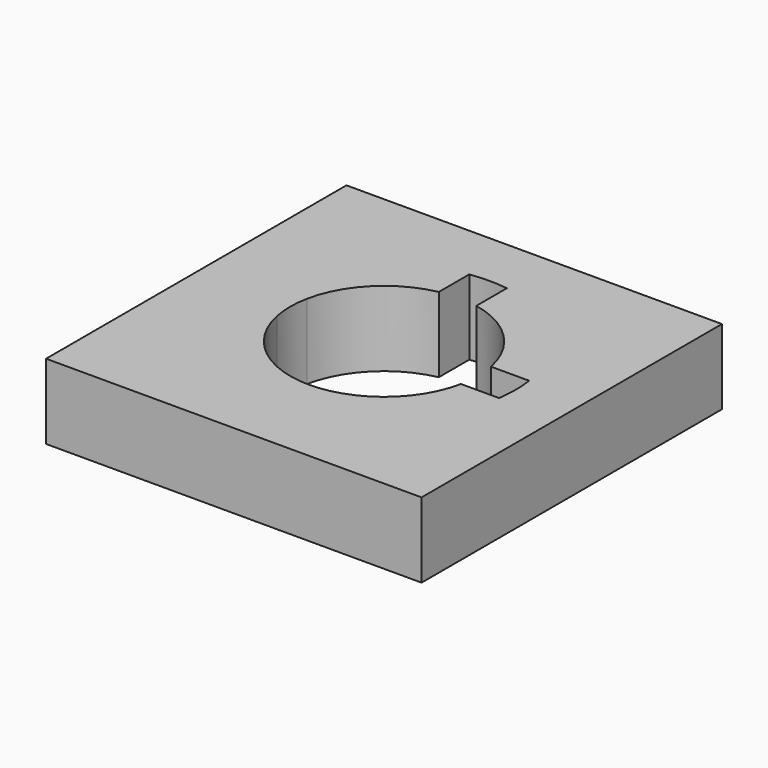
from build123d import *

# Parameters (mm, degrees)
F0_W     = 50
F0_H     = 50
F1_DEPTH = 10


with BuildPart() as f1:
    # F0 (on Top) → F1 (new body)
    with BuildSketch(Plane.XY):
        Rectangle(F0_W, F0_H)
        with BuildLine():
            ThreePointArc((2.5, 17.3205080757), (12.3743686708, 12.3743686708), (17.3205080757, 2.5))
            Line((17.3205080757, 2.5), (21.1176965386, 2.5))
            Line((21.1176965386, 2.5), (21.1176965386, -2.5))
            Line((21.1176965386, -2.5), (17.3205080757, -2.5))
            ThreePointArc((17.3205080757, -2.5), (12.3743686708, -12.3743686708), (2.5, -17.3205080757))
            Line((2.5, -17.3205080757), (2.5, -18.6099875718))
            Line((2.5, -18.6099875718), (-2.5, -18.6099875718))
            Line((-2.5, -18.6099875718), (-2.5, -17.3205080757))
            ThreePointArc((-2.5, -17.3205080757), (-12.3743686708, -12.3743686708), (-17.3205080757, -2.5))
            Line((-17.3205080757, -2.5), (-21.1176965386, -2.5))
            Line((-21.1176965386, -2.5), (-21.1176965386, 2.5))
            Line((-21.1176965386, 2.5), (-17.3205080757, 2.5))
            ThreePointArc((-17.3205080757, 2.5), (-12.3743686708, 12.3743686708), (-2.5, 17.3205080757))
            Line((-2.5, 17.3205080757), (-2.5, 18.6099875718))
            Line((-2.5, 18.6099875718), (2.5, 18.6099875718))
            Line((2.5, 18.6099875718), (2.5, 17.3205080757))
        make_face(mode=Mode.SUBTRACT)
        with BuildLine():
            ThreePointArc((-2.5, 17.3205080757), (0, 17.5), (2.5, 17.3205080757))
            Line((2.5, 17.3205080757), (2.5, 18.6099875718))
            Line((2.5, 18.6099875718), (-2.5, 18.6099875718))
            Line((-2.5, 18.6099875718), (-2.5, 17.3205080757))
        make_face()
        with BuildLine():
            ThreePointArc((-17.3205080757, -2.5), (-17.5, 0), (-17.3205080757, 2.5))
            Line((-17.3205080757, 2.5), (-21.1176965386, 2.5))
            Line((-21.1176965386, 2.5), (-21.1176965386, -2.5))
            Line((-21.1176965386, -2.5), (-17.3205080757, -2.5))
        make_face()
        with BuildLine():
            Line((2.5, -18.6099875718), (2.5, -17.3205080757))
            ThreePointArc((2.5, -17.3205080757), (0, -17.5), (-2.5, -17.3205080757))
            Line((-2.5, -17.3205080757), (-2.5, -18.6099875718))
            Line((-2.5, -18.6099875718), (2.5, -18.6099875718))
        make_face()
        with BuildLine():
            Line((21.1176965386, 2.5), (17.3205080757, 2.5))
            ThreePointArc((17.3205080757, 2.5), (17.4550693399, 1.2532175939), (17.5, 0))
            ThreePointArc((17.5, 0), (17.4550693399, -1.2532175939), (17.3205080757, -2.5))
            Line((17.3205080757, -2.5), (21.1176965386, -2.5))
            Line((21.1176965386, -2.5), (21.1176965386, 2.5))
        make_face()
        with BuildLine():
            ThreePointArc((2.5, 12.2474487139), (8.8388347648, 8.8388347648), (12.2474487139, 2.5))
            Line((12.2474487139, 2.5), (17.3205080757, 2.5))
            ThreePointArc((17.3205080757, 2.5), (12.3743686708, 12.3743686708), (2.5, 17.3205080757))
            Line((2.5, 17.3205080757), (2.5, 12.2474487139))
        make_face()
        with BuildLine():
            Line((17.3205080757, -2.5), (12.2474487139, -2.5))
            ThreePointArc((12.2474487139, -2.5), (8.8388347648, -8.8388347648), (2.5, -12.2474487139))
            Line((2.5, -12.2474487139), (2.5, -17.3205080757))
            ThreePointArc((2.5, -17.3205080757), (12.3743686708, -12.3743686708), (17.3205080757, -2.5))
        make_face()
        with BuildLine():
            Line((2.5, -17.3205080757), (2.5, -12.2474487139))
            ThreePointArc((2.5, -12.2474487139), (0, -12.5), (-2.5, -12.2474487139))
            Line((-2.5, -12.2474487139), (-2.5, -17.3205080757))
            ThreePointArc((-2.5, -17.3205080757), (0, -17.5), (2.5, -17.3205080757))
        make_face()
        with BuildLine():
            Line((-2.5, -17.3205080757), (-2.5, -12.2474487139))
            ThreePointArc((-2.5, -12.2474487139), (-8.8388347648, -8.8388347648), (-12.2474487139, -2.5))
            Line((-12.2474487139, -2.5), (-17.3205080757, -2.5))
            ThreePointArc((-17.3205080757, -2.5), (-12.3743686708, -12.3743686708), (-2.5, -17.3205080757))
        make_face()
        with BuildLine():
            ThreePointArc((-12.2474487139, -2.5), (-12.5, 0), (-12.2474487139, 2.5))
            Line((-12.2474487139, 2.5), (-17.3205080757, 2.5))
            ThreePointArc((-17.3205080757, 2.5), (-17.5, 0), (-17.3205080757, -2.5))
            Line((-17.3205080757, -2.5), (-12.2474487139, -2.5))
        make_face()
        with BuildLine():
            ThreePointArc((-12.2474487139, 2.5), (-8.8388347648, 8.8388347648), (-2.5, 12.2474487139))
            Line((-2.5, 12.2474487139), (-2.5, 17.3205080757))
            ThreePointArc((-2.5, 17.3205080757), (-12.3743686708, 12.3743686708), (-17.3205080757, 2.5))
            Line((-17.3205080757, 2.5), (-12.2474487139, 2.5))
        make_face()
    extrude(amount=F1_DEPTH)


solid = f1.part
